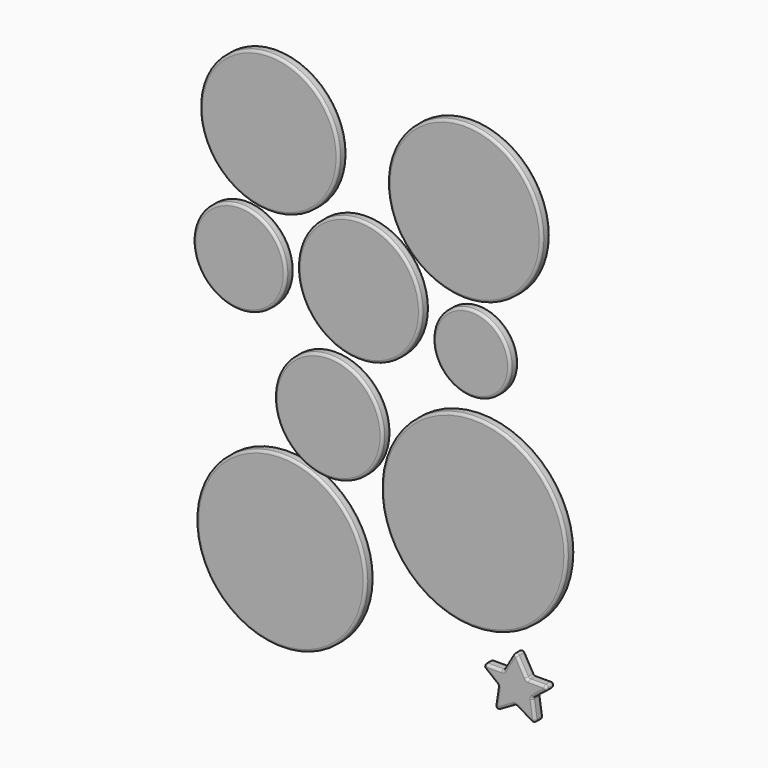
from build123d import *

# Parameters (mm, degrees)
F0_R     = 67.5
F1_DEPTH = 5
F0_R_2   = 75
F0_R_3   = 45
F0_R_4   = 60
F0_R_5   = 37.5
F0_R_6   = 90
F0_R_7   = 52.5
F0_R_8   = 82.5
F2_R     = 2.5
F2_2_R   = 2.5
F2_3_R   = 2.5
F2_4_R   = 2.5
F2_5_R   = 2.5
F2_6_R   = 2.5
F2_7_R   = 2.5
F2_8_R   = 2.5
F2_9_R   = 2.5


with BuildPart() as f1:
    # F0 (on Front) → F1 (new body, symmetric)
    with BuildSketch(Plane.XZ):
        with Locations((-94.9907451868, 47.4475324154)):
            Circle(F0_R)
    extrude(amount=F1_DEPTH, both=True)

    # F2#7
    f2_7_edges = [f1.edges().sort_by_distance(p)[0] for p in [
        (-162.490745, -5, 47.447532),
        (-162.490745, 5, 47.447532),
    ]]
    fillet(f2_7_edges, radius=F2_7_R)


with BuildPart() as f1b:
    # F0 (on Front) → F1, piece 2 (new body, symmetric)
    with BuildSketch(Plane.XZ):
        with Locations((95.0538104838, 42.0786983039)):
            Circle(F0_R_2)
    extrude(amount=F1_DEPTH, both=True)

    # F2#6
    f2_6_edges = [f1b.edges().sort_by_distance(p)[0] for p in [
        (20.05381, -5, 42.078698),
        (20.05381, 5, 42.078698),
    ]]
    fillet(f2_6_edges, radius=F2_6_R)


with BuildPart() as f1c:
    # F0 (on Front) → F1, piece 3 (new body, symmetric)
    with BuildSketch(Plane.XZ):
        with Locations((-123.8483525813, -69.0134912729)):
            Circle(F0_R_3)
    extrude(amount=F1_DEPTH, both=True)

    # F2#8
    f2_8_edges = [f1c.edges().sort_by_distance(p)[0] for p in [
        (-168.848353, -5, -69.013491),
        (-168.848353, 5, -69.013491),
    ]]
    fillet(f2_8_edges, radius=F2_8_R)


with BuildPart() as f1d:
    # F0 (on Front) → F1, piece 4 (new body, symmetric)
    with BuildSketch(Plane.XZ):
        with Locations((-7.3873084038, -58.7072111666)):
            Circle(F0_R_4)
    extrude(amount=F1_DEPTH, both=True)

    # F2#4
    f2_4_edges = [f1d.edges().sort_by_distance(p)[0] for p in [
        (-67.387308, -5, -58.707211),
        (-67.387308, 5, -58.707211),
    ]]
    fillet(f2_4_edges, radius=F2_4_R)


with BuildPart() as f1e:
    # F0 (on Front) → F1, piece 5 (new body, symmetric)
    with BuildSketch(Plane.XZ):
        with Locations((101.7578945838, -77.5487500801)):
            Circle(F0_R_5)
    extrude(amount=F1_DEPTH, both=True)

    # F2#5
    f2_5_edges = [f1e.edges().sort_by_distance(p)[0] for p in [
        (64.257895, -5, -77.54875),
        (64.257895, 5, -77.54875),
    ]]
    fillet(f2_5_edges, radius=F2_5_R)


with BuildPart() as f1f:
    # F0 (on Front) → F1, piece 6 (new body, symmetric)
    with BuildSketch(Plane.XZ):
        with Locations((103.9206013083, -221.5465605259)):
            Circle(F0_R_6)
    extrude(amount=F1_DEPTH, both=True)

    # F2#2
    f2_2_edges = [f1f.edges().sort_by_distance(p)[0] for p in [
        (13.920601, -5, -221.546561),
        (13.920601, 5, -221.546561),
    ]]
    fillet(f2_2_edges, radius=F2_2_R)


with BuildPart() as f1g:
    # F0 (on Front) → F1, piece 7 (new body, symmetric)
    with BuildSketch(Plane.XZ):
        with Locations((-37.2755303979, -177.2295236588)):
            Circle(F0_R_7)
    extrude(amount=F1_DEPTH, both=True)

    # F2#3
    f2_3_edges = [f1g.edges().sort_by_distance(p)[0] for p in [
        (-89.77553, -5, -177.229524),
        (-89.77553, 5, -177.229524),
    ]]
    fillet(f2_3_edges, radius=F2_3_R)


with BuildPart() as f1h:
    # F0 (on Front) → F1, piece 8 (new body, symmetric)
    with BuildSketch(Plane.XZ):
        with Locations((-83.6538225412, -307.0887327194)):
            Circle(F0_R_8)
    extrude(amount=F1_DEPTH, both=True)

    # F2
    f2_edges = [f1h.edges().sort_by_distance(p)[0] for p in [
        (-166.153823, -5, -307.088733),
        (-166.153823, 5, -307.088733),
    ]]
    fillet(f2_edges, radius=F2_R)


with BuildPart() as f1i:
    # F0 (on Front) → F1, piece 9 (new body, symmetric)
    with BuildSketch(Plane.XZ):
        Polygon((144.0317779779, -318.6796853373), (132.3651113113, -338.8869447589), (109.0317779779, -338.8869447589), (127.2852049566, -353.4216221884), (123.8245185563, -376.4968923728), (144.0317779779, -364.8302257061), (164.2390373996, -376.4968923728), (160.7783509992, -353.4216221884), (179.0317779779, -338.8869447589), (155.6984446446, -338.8869447589), align=None)
    extrude(amount=F1_DEPTH, both=True)

    # F2#9
    f2_9_edges = [f1i.edges().sort_by_distance(p)[0] for p in [
        (167.365111, -5, -338.886945),
        (149.865111, -5, -328.783315),
        (138.198445, -5, -328.783315),
        (120.698445, -5, -338.886945),
        (118.158491, -5, -346.154283),
        (125.554862, -5, -364.959257),
        (133.928148, -5, -370.663559),
        (154.135408, -5, -370.663559),
        (162.508694, -5, -364.959257),
        (169.905064, -5, -346.154283),
        (144.031778, 0, -364.830226),
        (154.135408, 5, -370.663559),
        (164.239037, 0, -376.496892),
        (123.824519, 0, -376.496892),
        (133.928148, 5, -370.663559),
        (169.905064, 5, -346.154283),
        (179.031778, 0, -338.886945),
        (160.778351, 0, -353.421622),
        (162.508694, 5, -364.959257),
        (167.365111, 5, -338.886945),
        (155.698445, 0, -338.886945),
        (149.865111, 5, -328.783315),
        (144.031778, 0, -318.679685),
        (138.198445, 5, -328.783315),
        (132.365111, 0, -338.886945),
        (120.698445, 5, -338.886945),
        (109.031778, 0, -338.886945),
        (118.158491, 5, -346.154283),
        (127.285205, 0, -353.421622),
        (125.554862, 5, -364.959257),
    ]]
    fillet(f2_9_edges, radius=F2_9_R)


solid = Compound([f1.part, f1b.part, f1c.part, f1d.part, f1e.part, f1f.part, f1g.part, f1h.part, f1i.part])
